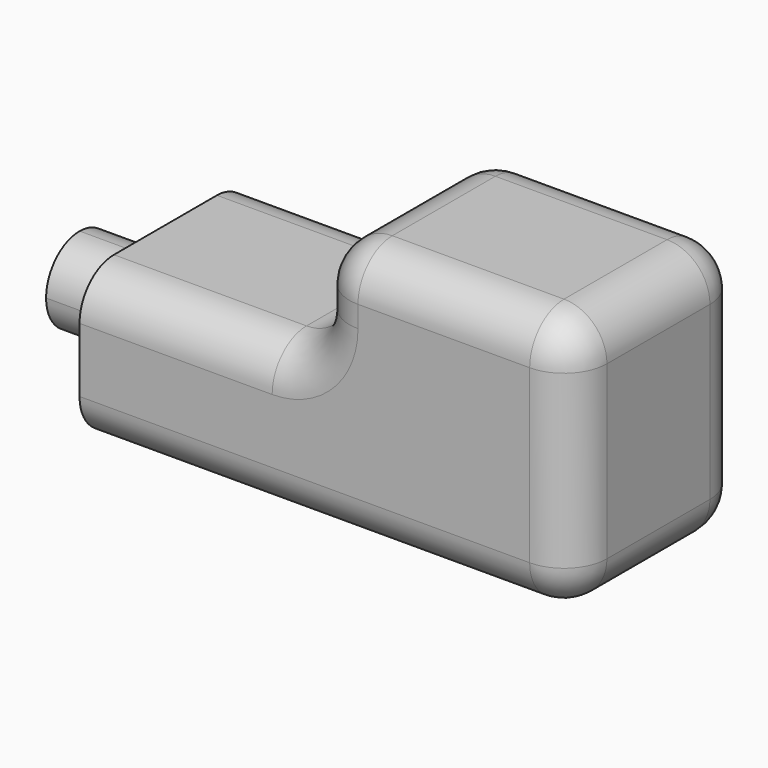
from build123d import *

# Parameters (mm, degrees)
F1_DEPTH = 25.4
F2_R     = 5.08
F3_R     = 5.08
F5_DEPTH = 10.16


with BuildPart() as f1:
    # F0 (on Front) → F1 (new body)
    with BuildSketch(Plane.XZ):
        Polygon((0, 38.0835495889), (0, 25.4), (-25.4, 25.4), (-27.8758880853, 25.4), (-27.8758880853, 7.62), (30.48, 7.62), (30.48, 38.1), (0, 38.1), align=None)
    extrude(amount=F1_DEPTH)

    # F2
    f2_edges = [f1.edges().sort_by_distance(p)[0] for p in [
        (0, -12.7, 25.4),
        (0, -12.7, 38.1),
        (30.48, -12.7, 38.1),
        (30.48, -12.7, 7.62),
    ]]
    fillet(f2_edges, radius=F2_R)

    # F3
    f3_edges = [f1.edges().sort_by_distance(p)[0] for p in [
        (30.48, 0, 22.86),
        (-16.477944, -25.4, 25.4),
    ]]
    fillet(f3_edges, radius=F3_R)

    # F4 (on face) → F5 (join)
    with BuildSketch(Plane(origin=(-27.8758880853, 0, 0), x_dir=(0, -1, 0), z_dir=(-1, 0, 0))):
        with BuildLine():
            Line((12.7, 11.557), (12.7, 21.463))
            ThreePointArc((12.7, 21.463), (7.747, 16.51), (12.7, 11.557))
        make_face()
        with BuildLine():
            ThreePointArc((17.653, 16.51), (16.2022998872, 20.0122998872), (12.7, 21.463))
            Line((12.7, 21.463), (12.7, 11.557))
            ThreePointArc((12.7, 11.557), (16.2022998872, 13.0077001128), (17.653, 16.51))
        make_face()
    extrude(amount=F5_DEPTH)


solid = f1.part
